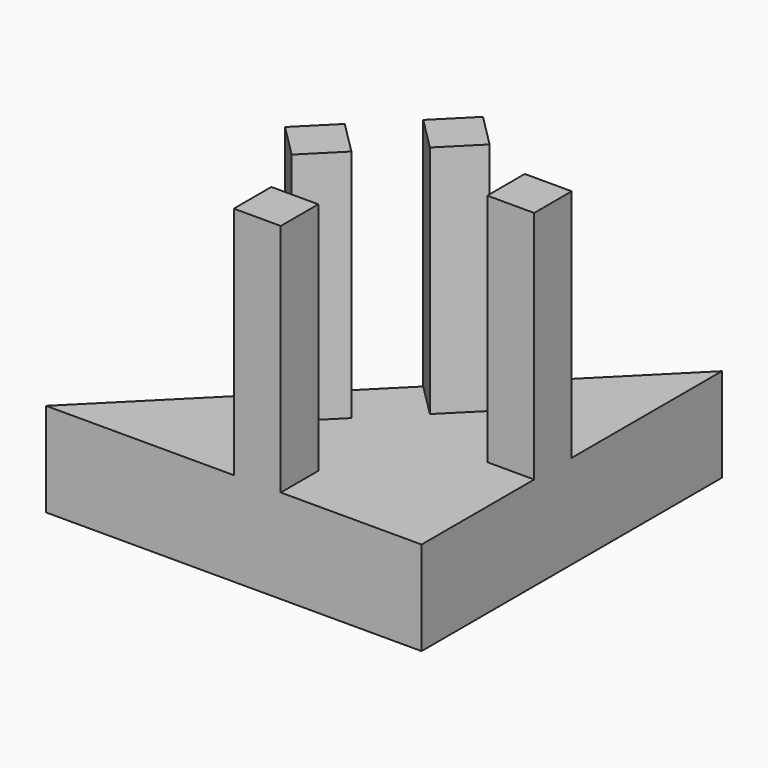
from build123d import *

# Parameters (mm, degrees)
F0_W     = 12.7
F0_H     = 12.7
F1_DEPTH = 25.4
F2_W     = 12.7
F2_H     = 12.7
F3_DEPTH = 63.5


with BuildPart() as f1:
    # F0 (on Top) → F1 (new body)
    with BuildSketch(Plane.XY):
        Polygon((12.7, -50.8), (50.8, -50.8), (50.8, -12.7), (38.1, -12.7), (38.1, 0), (50.8, 0), (50.8, 50.8), (14.878976, 14.878976), (23.859232, 5.898719), (14.878976, -3.081537), (5.898719, 5.898719), (-5.898719, -5.898719), (3.081537, -14.878976), (-5.898719, -23.859232), (-14.878976, -14.878976), (-50.8, -50.8), (0, -50.8), (0, -38.1), (12.7, -38.1), align=None)
        Polygon((12.7, -50.8), (50.8, -50.8), (50.8, -12.7), (38.1, -12.7), (38.1, 0), (50.8, 0), (50.8, 50.8), (14.878976, 14.878976), (23.859232, 5.898719), (14.878976, -3.081537), (5.898719, 5.898719), (-5.898719, -5.898719), (3.081537, -14.878976), (-5.898719, -23.859232), (-14.878976, -14.878976), (-50.8, -50.8), (0, -50.8), (0, -38.1), (12.7, -38.1), align=None)
        with Locations((6.35, -44.45)):
            Rectangle(F0_W, F0_H)
        with Locations((44.45, -6.35)):
            Rectangle(F0_W, F0_H)
        Polygon((-5.898719, -5.898719), (-14.878976, -14.878976), (-5.898719, -23.859232), (3.081537, -14.878976), align=None)
        Polygon((23.859232, 5.898719), (14.878976, 14.878976), (5.898719, 5.898719), (14.878976, -3.081537), align=None)
    extrude(amount=F1_DEPTH)

    # F2 (on face) → F3 (join)
    with BuildSketch(Plane.XY.offset(25.4)):
        with Locations((44.45, -6.35)):
            Rectangle(F2_W, F2_H)
        Polygon((14.878976, 14.878976), (5.898719, 5.898719), (14.878976, -3.081537), (23.859232, 5.898719), align=None)
        Polygon((-5.898719, -5.898719), (-14.878976, -14.878976), (-5.898719, -23.859232), (3.081537, -14.878976), align=None)
        with Locations((6.35, -44.45)):
            Rectangle(F2_W, F2_H)
    extrude(amount=F3_DEPTH)


solid = f1.part
